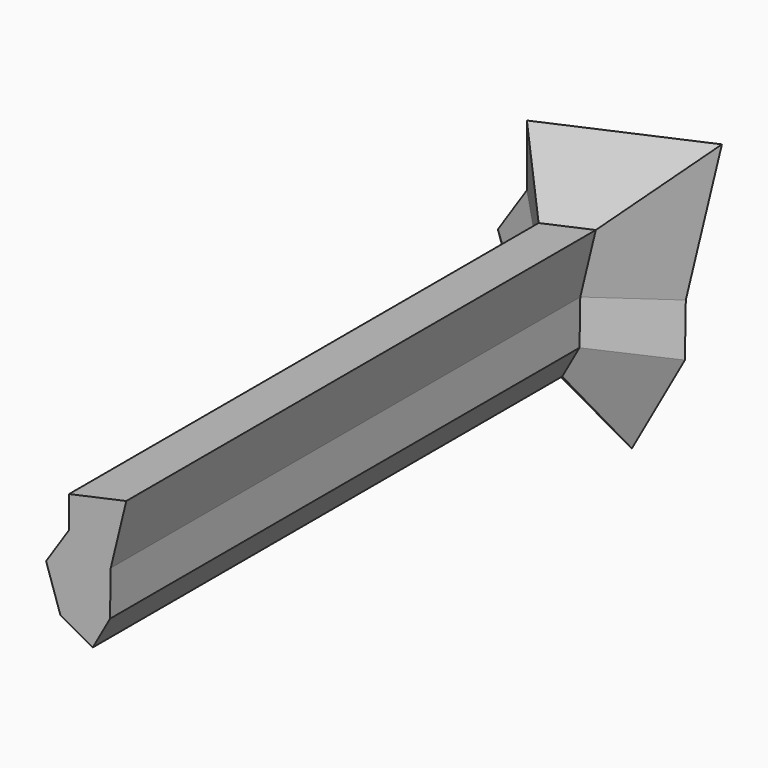
from build123d import *

# Parameters (mm, degrees)
F1_DEPTH = 150
F2_DEPTH = 15
F2_TAPER = -45


with BuildPart() as f1:
    # F0 (on Front) → F1 (new body)
    with BuildSketch(Plane.XZ):
        Polygon((-4.2060142278, 15.0387269028), (-4.2060142278, 6.9354540252), (-10.0848589919, -1.9622577305), (-6.4304423414, -12.925509312), (1.8317185913, -17.5332528956), (6.2444940872, -9.6206899143), (6.4394624077, 1.8510474407), (10.4116547026, 18.2164814838), align=None)
    extrude(amount=F1_DEPTH)

    # F1_face (on face) → F2 (join)
    with BuildSketch(Plane(origin=(0.3079929201, 0, 0.7285938537), x_dir=(1, 0, 0), z_dir=(0, 1, 0))):
        Polygon((-4.5140071479, -6.2068601715), (-4.5140071479, -14.3101330491), (10.1036617825, -17.4878876301), (6.1314694876, -1.122453587), (5.9365011671, 10.349283768), (1.5237256712, 18.2618467493), (-6.7384352615, 13.6541031656), (-10.392851912, 2.6908515842), align=None)
    extrude(amount=F2_DEPTH, taper=F2_TAPER)


solid = f1.part
